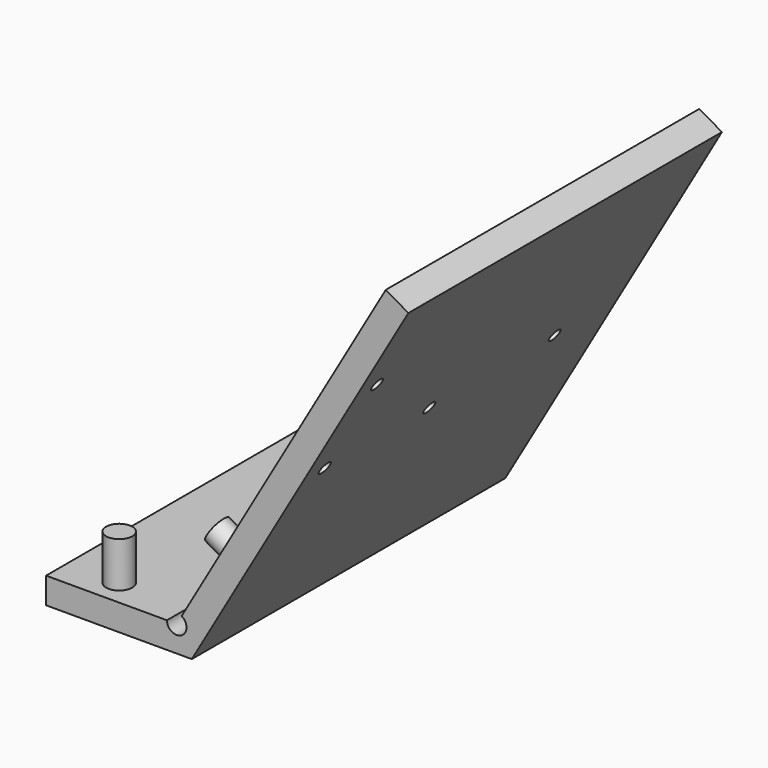
from build123d import *

# Parameters (mm, degrees)
F1_DEPTH = 190.5
F2_R     = 3.175
F3_DEPTH = 25.4
F4_R     = 6.35
F5_DEPTH = 10.9982
F6_R     = 6.35
F7_DEPTH = 21.9964


with BuildPart() as f1:
    # F0 (on Front) → F1 (new body)
    with BuildSketch(Plane.XZ):
        with BuildLine():
            Line((0, 12.7), (0, 0))
            Line((0, 0), (70.8406, 0))
            Line((70.8406, 0), (176.1109, 182.333508128))
            Line((176.1109, 182.333508128), (165.1123773719, 188.683508128))
            Line((165.1123773719, 188.683508128), (65.8874360053, 16.820868303))
            ThreePointArc((65.8874360053, 16.820868303), (65.878154986, 8.573768655), (58.7375, 12.7))
            Line((58.7375, 12.7), (0, 12.7))
        make_face()
    extrude(amount=F1_DEPTH)

    # F2 (on face) → F3 (cut)
    with BuildSketch(Plane(origin=(42.1319273719, 0, -24.3248796097), x_dir=(0, -1, 0), z_dir=(-0.8660254038, 0, 0.5))):
        with Locations((38.1, 144.3609)):
            Circle(F2_R)
        with Locations((114.3, 144.3609)):
            Circle(F2_R)
        with Locations((177.8, 144.3609)):
            Circle(F2_R)
        with Locations((177.8, 195.1609)):
            Circle(F2_R)
    extrude(amount=-F3_DEPTH, mode=Mode.SUBTRACT)

    # F4 (on face) → F5 (join)
    with BuildSketch(Plane(origin=(42.1319273719, 0, -24.3248796097), x_dir=(0, -1, 0), z_dir=(-0.8660254038, 0, 0.5))):
        with Locations((177.8, 80.8609)):
            Circle(F4_R)
    extrude(amount=F5_DEPTH)

    # F6 (on face) → F7 (join)
    with BuildSketch(Plane.XY.offset(12.7)):
        with Locations((25.4, -177.8)):
            Circle(F6_R)
    extrude(amount=F7_DEPTH)


solid = f1.part
